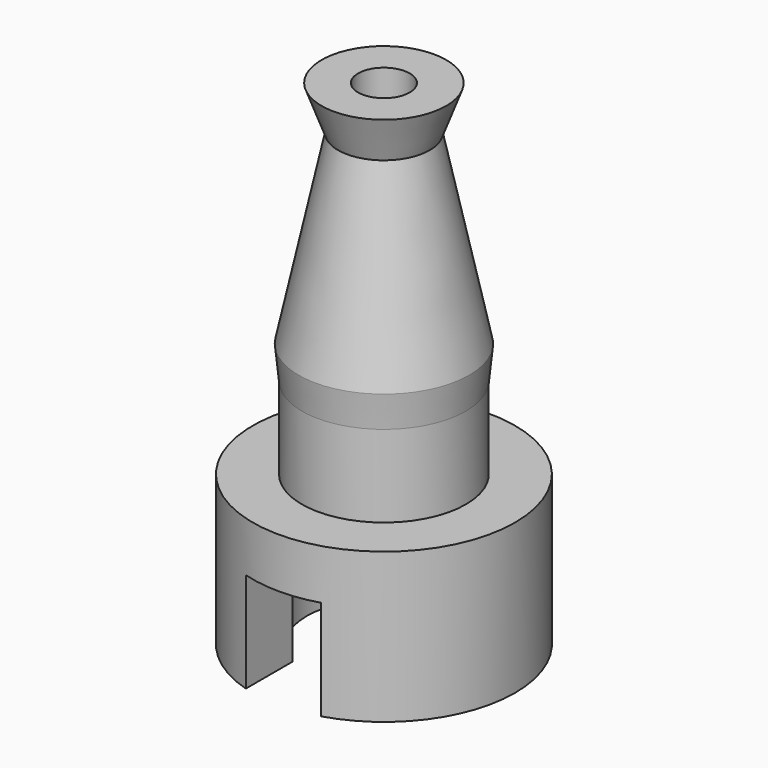
from build123d import *

# Parameters (mm, degrees)
SKETCH001_R          = 2.3495
POCKET_DEPTH         = 4.064
SKETCH002_R          = 0.7874
POCKET001_DEPTH      = 15.073
SKETCH003_W          = 2.286
SKETCH003_H          = 5.08
POCKET002_DEPTH      = 5.0038
POCKET002_DEPTH_BACK = -99.9998


with BuildPart() as part:
    # Sketch → Revolution (revolve)
    with BuildSketch(Plane.XZ):
        Polygon((2.5, 0), (4, 0), (4, -4.572), (0, -4.572), (0, 0), (0, 10.5), (1.9, 10.5), (1.4, 9.15), (2.6, 3.5), (2.5, 2.5), align=None)
    revolve(axis=Axis((0, 0, 0), (0, 0, 1)))

    # Sketch001 (on Face5 of Revolution) → Pocket (cut)
    with BuildSketch(Plane(origin=(0, 0, -4.572), x_dir=(1, 0, 0), z_dir=(0, 0, -1))):
        Circle(SKETCH001_R)
    extrude(amount=-POCKET_DEPTH, mode=Mode.SUBTRACT)

    # Sketch002 (on Face6 of Pocket) → Pocket001 (cut, through all)
    with BuildSketch(Plane(origin=(0, 0, 10.5), x_dir=(-1, 0, 0), z_dir=(0, 0, 1))):
        Circle(SKETCH002_R)
    extrude(amount=-POCKET001_DEPTH, mode=Mode.SUBTRACT)

    # Sketch003 → Pocket002 (cut, two sides)
    with BuildSketch(Plane.XZ) as pocket002_sk:
        with Locations((0, -4.064)):
            Rectangle(SKETCH003_W, SKETCH003_H)
    extrude(amount=-POCKET002_DEPTH, mode=Mode.SUBTRACT)
    extrude(pocket002_sk.sketch, amount=-POCKET002_DEPTH_BACK, mode=Mode.SUBTRACT)


solid = part.part
